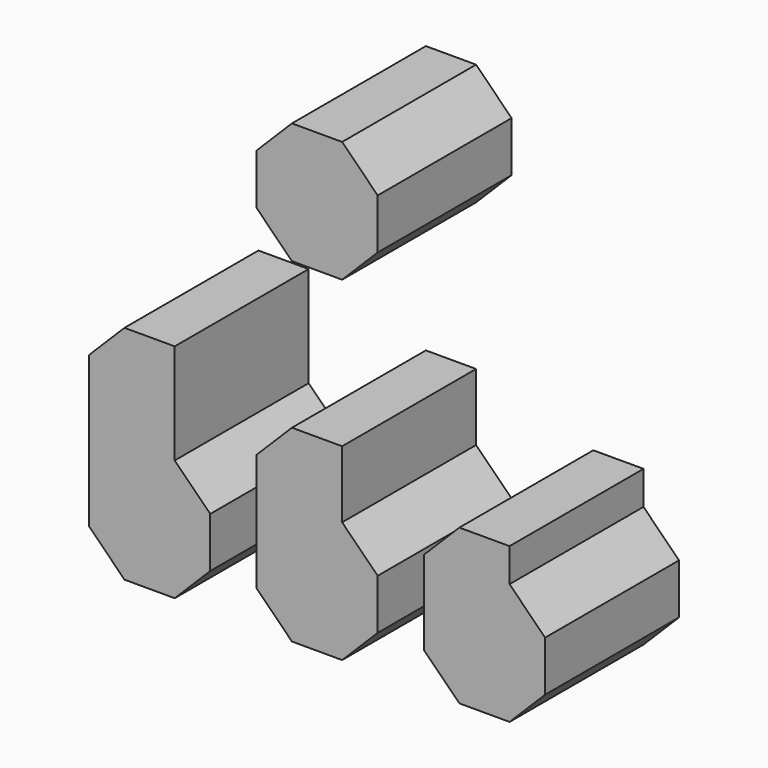
from build123d import *

# Parameters (mm, degrees)
F1_DEPTH = 127
F5_DEPTH = 76.2
F6_DEPTH = 50.8
F7_DEPTH = 25.4


with BuildPart() as f1:
    # F0 (on Front) → F1 (new body)
    with BuildSketch(Plane.XZ):
        Polygon((45.9907683632, -19.05), (45.9907683632, 19.05), (19.05, 45.9907683632), (-19.05, 45.9907683632), (-45.9907683632, 19.05), (-45.9907683632, -19.05), (-19.05, -45.9907683632), (19.05, -45.9907683632), align=None)
    extrude(amount=F1_DEPTH)


with BuildPart() as f2_1:
    # F2: copy of F1
    add(f1.part.moved(Location((0, 0, 254))))


with BuildPart() as f3_1:
    # F3: copy of F1
    add(f1.part.moved(Location((127, 0, 0))))

    # F7 (add): faces of the model
    f7_faces = [f3_1.faces().sort_by_distance(p)[0] for p in [
        (127, -63.5, 45.9907683632),
        (94.4796158184, -63.5, 32.5203841816),
    ]]
    extrude(f7_faces, amount=F7_DEPTH, dir=(0, 0, 1))


with BuildPart() as f4_1:
    # F4: copy of F1
    add(f1.part.moved(Location((-127, 0, 0))))

    # F5 (add): faces of the model
    f5_faces = [f4_1.faces().sort_by_distance(p)[0] for p in [
        (-127, -63.5, 45.9907683632),
        (-159.5203841816, -63.5, 32.5203841816),
    ]]
    extrude(f5_faces, amount=F5_DEPTH, dir=(0, 0, 1))


with BuildPart() as f1_1:
    add(f1.part)

    # F6 (add): faces of the model
    f6_faces = [f1_1.faces().sort_by_distance(p)[0] for p in [
        (0, -63.5, 45.9907683632),
        (-32.5203841816, -63.5, 32.5203841816),
    ]]
    extrude(f6_faces, amount=F6_DEPTH, dir=(0, 0, 1))


solid = Compound([f2_1.part, f3_1.part, f4_1.part, f1_1.part])
